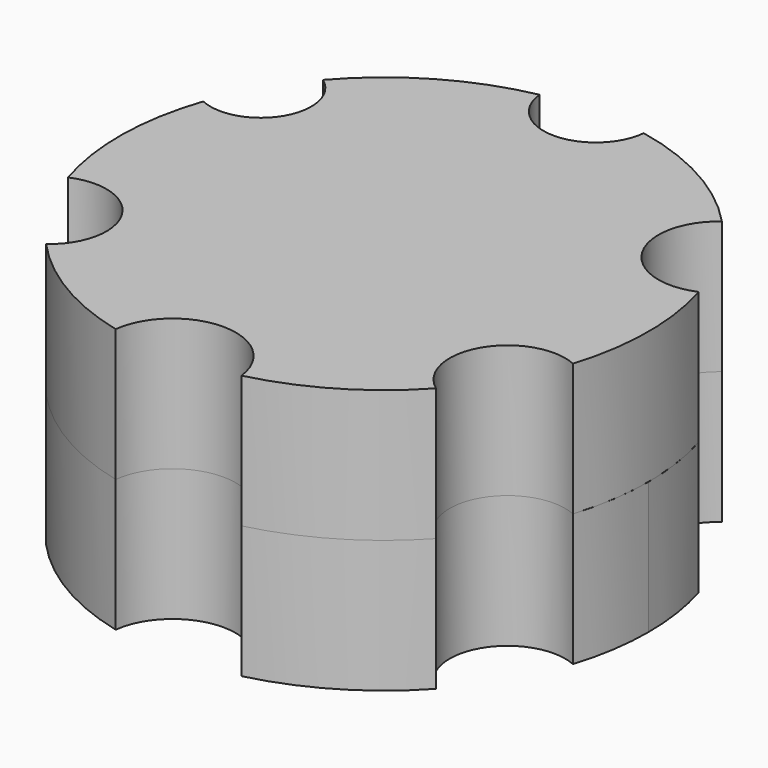
from build123d import *

# Parameters (mm, degrees)
F1_DEPTH = 25.4
F3_DEPTH = 25.4


with BuildPart() as f1:
    # F0 (on Top) → F1 (new body)
    with BuildSketch(Plane.XY):
        with BuildLine():
            ThreePointArc((48.458738, -15.244367), (50.211273, -7.711554), (50.8, 0))
            ThreePointArc((50.8, 0), (50.253165, 7.433668), (48.624432, 14.707298))
            ThreePointArc((48.624432, 14.707298), (33.902983, 19.573896), (37.04911, 34.756345))
            ThreePointArc((37.04911, 34.756345), (24.697462, 44.39229), (9.997126, 49.806601))
            ThreePointArc((9.997126, 49.806601), (0, 40.753639), (-9.997126, 49.806601))
            ThreePointArc((-9.997126, 49.806601), (-25.562954, 43.899606), (-38.383055, 33.277336))
            ThreePointArc((-38.383055, 33.277336), (-35.397499, 29.831113), (-34.322682, 25.4))
            ThreePointArc((-34.322682, 25.4), (-38.764781, 17.264248), (-48.010546, 16.602033))
            ThreePointArc((-48.010546, 16.602033), (-50.795626, 0.666602), (-48.429681, -15.336426))
            ThreePointArc((-48.429681, -15.336426), (-37.987071, -16.187742), (-32.996364, -25.4))
            ThreePointArc((-32.996364, -25.4), (-34.18573, -30.37454), (-37.496576, -34.273121))
            ThreePointArc((-37.496576, -34.273121), (-25.905596, -43.698285), (-12.074193, -49.344238))
            ThreePointArc((-12.074193, -49.344238), (0, -38.638364), (12.074193, -49.344238))
            ThreePointArc((12.074193, -49.344238), (25.864064, -43.722879), (37.431378, -34.344314))
            ThreePointArc((37.431378, -34.344314), (34.386674, -19.853155), (48.458738, -15.244367))
        make_face()
    extrude(amount=F1_DEPTH)


with BuildPart() as f3:
    # F2 (on face) → F3 (new body)
    with BuildSketch(Plane.XY.offset(25.4)):
        with BuildLine():
            ThreePointArc((37.04911, 34.756345), (24.697462, 44.39229), (9.997126, 49.806601))
            ThreePointArc((9.997126, 49.806601), (0, 40.753639), (-9.997126, 49.806601))
            ThreePointArc((-9.997126, 49.806601), (-25.562954, 43.899606), (-38.383055, 33.277336))
            ThreePointArc((-38.383055, 33.277336), (-35.618405, 20.564296), (-48.010546, 16.602033))
            ThreePointArc((-48.010546, 16.602033), (-50.795626, 0.666602), (-48.429681, -15.336426))
            ThreePointArc((-48.429681, -15.336426), (-34.46978, -19.901137), (-37.496576, -34.273121))
            ThreePointArc((-37.496576, -34.273121), (-25.905596, -43.698285), (-12.074193, -49.344238))
            ThreePointArc((-12.074193, -49.344238), (0, -38.638364), (12.074193, -49.344238))
            ThreePointArc((12.074193, -49.344238), (25.864064, -43.722879), (37.431378, -34.344314))
            ThreePointArc((37.431378, -34.344314), (34.386674, -19.853155), (48.458738, -15.244367))
            ThreePointArc((48.458738, -15.244367), (50.799223, -0.281024), (48.624432, 14.707298))
            ThreePointArc((48.624432, 14.707298), (33.902983, 19.573896), (37.04911, 34.756345))
        make_face()
    extrude(amount=F3_DEPTH)


solid = Compound([f1.part, f3.part])
